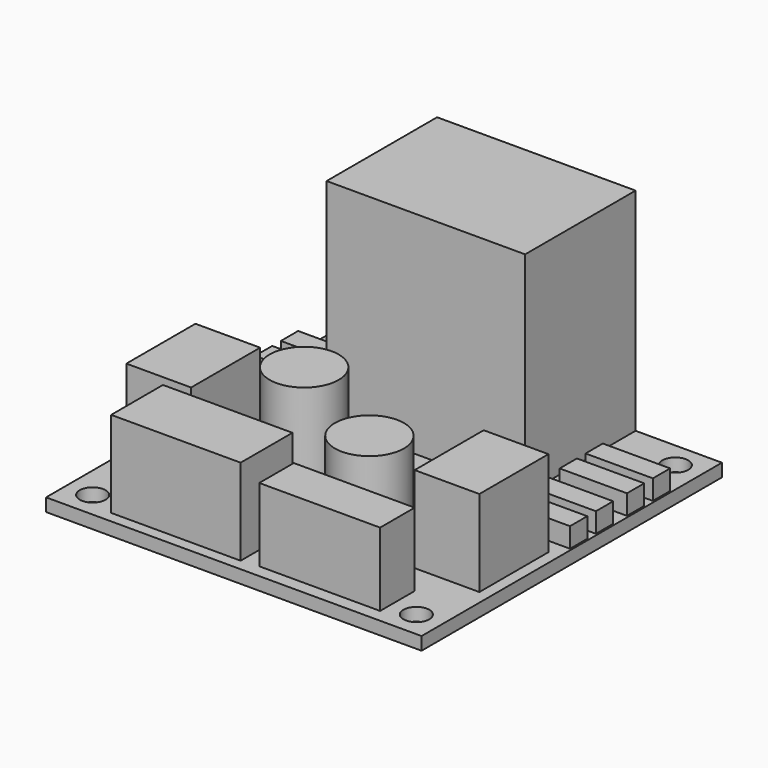
from build123d import *

# Parameters (mm, degrees)
F0_W      = 43.5
F0_H      = 43.5
F0_R      = 1.5
F1_DEPTH  = 1.5
F2_W      = 23
F2_H      = 16
F3_DEPTH  = 24.5
F4_W      = 8
F4_H      = 2.5
F5_DEPTH  = 2.3
F6_W      = 5.75
F6_H      = 5.75
F7_DEPTH  = 2
F8_R      = 4
F9_DEPTH  = 11
F10_W     = 7.5
F10_H     = 10
F10_W_2   = 15
F10_H_2   = 7.5
F11_DEPTH = 10
F12_W     = 14
F12_H     = 5
F13_DEPTH = 8.5
F14_W     = 2.5
F14_H     = 2.3
F15_DEPTH = 0.2
F16_W     = 2.5
F16_H     = 2.3
F17_DEPTH = 0.2


with BuildPart() as f1:
    # F0 (on Top) → F1 (new body)
    with BuildSketch(Plane.XY):
        Rectangle(F0_W, F0_H)
        with Locations((-18.75, -18.75)):
            Circle(F0_R, mode=Mode.SUBTRACT)
        with Locations((18.75, -18.75)):
            Circle(F0_R, mode=Mode.SUBTRACT)
        with Locations((-18.75, 18.75)):
            Circle(F0_R, mode=Mode.SUBTRACT)
        with Locations((18.75, 18.75)):
            Circle(F0_R, mode=Mode.SUBTRACT)
    extrude(amount=F1_DEPTH)

    # F2 (on face) → F3 (join)
    with BuildSketch(Plane.XY.offset(1.5)):
        with Locations((0.25, 13.75)):
            Rectangle(F2_W, F2_H)
    extrude(amount=F3_DEPTH)

    # F4 (on face) → F5 (join)
    with BuildSketch(Plane.XY.offset(1.5)):
        with Locations((-17.75, 13.25)):
            Rectangle(F4_W, F4_H)
        with Locations((-17.75, 9.5)):
            Rectangle(F4_W, F4_H)
        with Locations((-17.75, 5)):
            Rectangle(F4_W, F4_H)
        with Locations((17.75, 13.25)):
            Rectangle(F4_W, F4_H)
        with Locations((17.75, 9.5)):
            Rectangle(F4_W, F4_H)
        with Locations((17.75, 5)):
            Rectangle(F4_W, F4_H)
        with Locations((17.75, 1.25)):
            Rectangle(F4_W, F4_H)
        with Locations((-17.75, 1.25)):
            Rectangle(F4_W, F4_H)
    extrude(amount=F5_DEPTH)

    # F6 (on face) → F7 (join)
    with BuildSketch(Plane.XY.offset(1.5)):
        with Locations((6.375, -2.875)):
            Rectangle(F6_W, F6_H)
    extrude(amount=F7_DEPTH)

    # F8 (on face) → F9 (join)
    with BuildSketch(Plane.XY.offset(1.5)):
        with Locations((-6.25, -3.75)):
            Circle(F8_R)
        with Locations((6.75, -10.55)):
            Circle(F8_R)
    extrude(amount=F9_DEPTH)

    # F10 (on face) → F11 (join)
    with BuildSketch(Plane.XY.offset(1.5)):
        with Locations((16.7, -6.75)):
            Rectangle(F10_W, F10_H)
        with Locations((-16.7, -6.75)):
            Rectangle(F10_W, F10_H)
        with Locations((-7.75, -16.7)):
            Rectangle(F10_W_2, F10_H_2)
    extrude(amount=F11_DEPTH)

    # F12 (on face) → F13 (join)
    with BuildSketch(Plane.XY.offset(1.5)):
        with Locations((8.75, -17.75)):
            Rectangle(F12_W, F12_H)
    extrude(amount=F13_DEPTH)

    # F14 (on face) → F15 (cut)
    with BuildSketch(Plane.YZ.offset(21.75)):
        with Locations((1.25, 2.65)):
            Rectangle(F14_W, F14_H)
        with Locations((5, 2.65)):
            Rectangle(F14_W, F14_H)
        with Locations((9.5, 2.65)):
            Rectangle(F14_W, F14_H)
        with Locations((13.25, 2.65)):
            Rectangle(F14_W, F14_H)
    extrude(amount=-F15_DEPTH, mode=Mode.SUBTRACT)

    # F16 (on face) → F17 (cut)
    with BuildSketch(Plane(origin=(-21.75, 0, 0), x_dir=(0, -1, 0), z_dir=(-1, 0, 0))):
        with Locations((-13.25, 2.65)):
            Rectangle(F16_W, F16_H)
        with Locations((-9.5, 2.65)):
            Rectangle(F16_W, F16_H)
        with Locations((-5, 2.65)):
            Rectangle(F16_W, F16_H)
        with Locations((-1.25, 2.65)):
            Rectangle(F16_W, F16_H)
    extrude(amount=-F17_DEPTH, mode=Mode.SUBTRACT)


solid = f1.part
